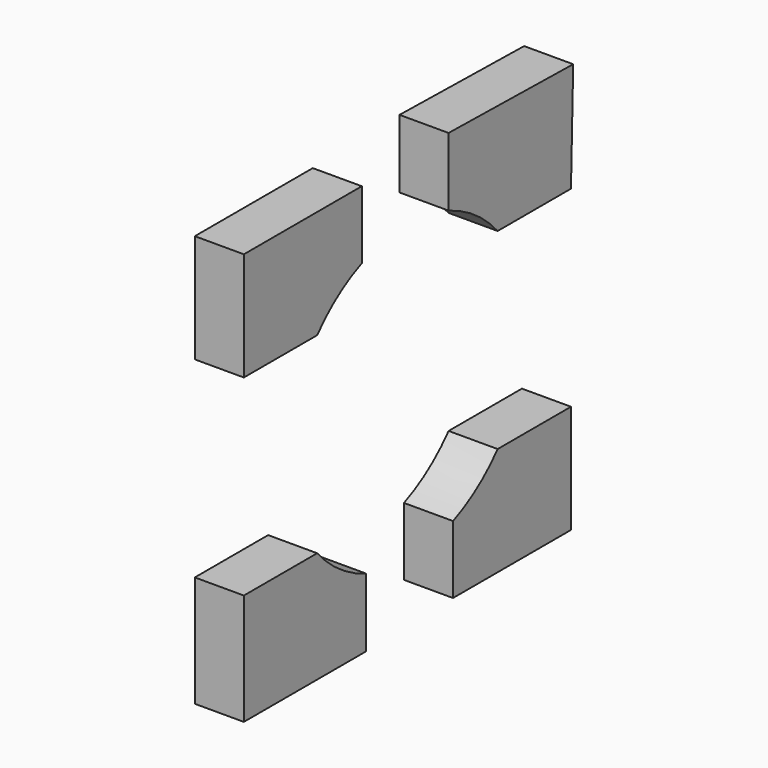
from build123d import *

# Parameters (mm, degrees)
F1_DEPTH = 5.3


with BuildPart() as f1:
    # F0 (on Right) → F1 (new body)
    with BuildSketch(Plane.YZ):
        with BuildLine():
            ThreePointArc((-12.085556, 10.834273), (-9.33236, 13.389833), (-6.05927, 15.233158))
            Line((-6.05927, 15.233158), (-6.05927, 22.556603))
            Line((-6.05927, 22.556603), (-21.989615, 22.556603))
            Line((-21.989615, 22.556603), (-21.989615, 10.834273))
            Line((-21.989615, 10.834273), (-12.085556, 10.834273))
        make_face()
        with BuildLine():
            ThreePointArc((5.663058, 15.469836), (9.274459, 13.577652), (12.290489, 10.834273))
            Line((12.290489, 10.834273), (22.194548, 10.834273))
            Line((22.194548, 10.834273), (22.49512, 22.556603))
            Line((22.49512, 22.556603), (5.663058, 22.857174))
            Line((5.663058, 22.857174), (5.663058, 15.469836))
        make_face()
        with BuildLine():
            Line((22.194548, -9.90523), (12.290489, -9.90523))
            ThreePointArc((12.290489, -9.90523), (9.537294, -12.46079), (6.264203, -14.304116))
            Line((6.264203, -14.304116), (6.264203, -21.62756))
            Line((6.264203, -21.62756), (22.194548, -21.62756))
            Line((22.194548, -21.62756), (22.194548, -9.90523))
        make_face()
        with BuildLine():
            Line((-5.458125, -21.928132), (-5.458125, -14.540793))
            ThreePointArc((-5.458125, -14.540793), (-9.069525, -12.64861), (-12.085556, -9.90523))
            Line((-12.085556, -9.90523), (-21.989615, -9.90523))
            Line((-21.989615, -9.90523), (-21.989615, -21.928132))
            Line((-21.989615, -21.928132), (-5.458125, -21.928132))
        make_face()
    extrude(amount=-F1_DEPTH)


solid = f1.part
